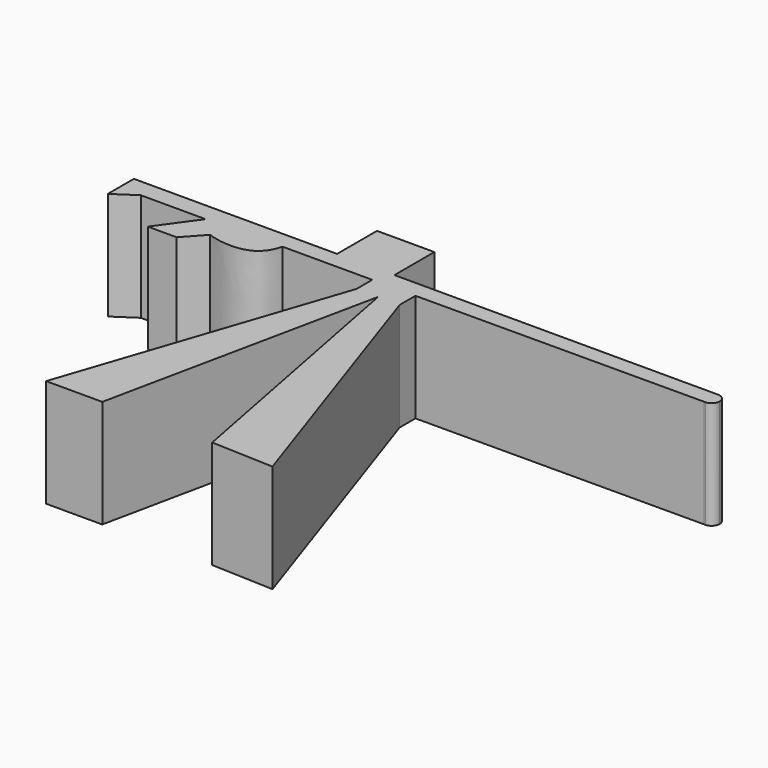
from build123d import *

# Parameters (mm, degrees)
F0_W     = 13.4990522638
F0_H     = 6.7189366567
F0_H_2   = 5.0193380237
F1_DEPTH = 25.4


with BuildPart() as f1:
    # F0 (on Top) → F1 (new body)
    with BuildSketch(Plane.XY):
        with Locations((-14.9052026682, 36.7298916125)):
            Rectangle(F0_W, F0_H)
        Polygon((-49.1617234445, 24.0451842546), (-46.0720470312, 28.3510852605), (-69.4638639688, 28.3510852605), (-69.4638639688, 20.6704232842), (-64.4017234445, 24.0451842546), align=None)
        Polygon((-18.5611955822, -44.5749908686), (-5.08, 19.6878403194), (-10.16, 19.6878403194), (-31.7790172994, -44.5749908686), align=None)
        Polygon((21.9359565526, -45.1374538243), (0, 19.6878403194), (-5.08, 19.6878403194), (7.3119853623, -44.5749908686), align=None)
        with Locations((-14.9052026682, 30.8607542723)):
            Rectangle(F0_W, F0_H_2)
        with BuildLine():
            Line((-41.9020165778, 22.7089282594), (-44.6144271886, 19.7146166008))
            add(Edge.make_bspline(
                [(-31.2667824328, 24.3264157325), (-31.9929960152, 21.6699538462), (-34.7602014448, 18.1939718361), (-41.4758034197, 18.5698095031), (-44.6144271886, 19.7146166008)],
                knots=[0, 0, 0, 0, 0.4544832874, 1, 1, 1, 1], degree=3))
            Line((-31.2667824328, 24.3264157325), (-37.5335417804, 24.3264157325))
            add(Edge.make_bspline(
                [(-37.5335417804, 24.3264157325), (-36.8480037486, 22.5468860707), (-34.5986306719, 21.0862357426), (-37.8524884582, 21.3479679078), (-41.9020165778, 22.7089282594)],
                knots=[0, 0, 0, 0, 0.4183773916, 1, 1, 1, 1], degree=3))
        make_face()
        Polygon((0, 19.6878403194), (0, 24.3264157325), (-10.16, 24.3264157325), (-10.16, 19.6878403194), (-5.08, 19.6878403194), align=None)
        with BuildLine():
            Line((-8.1556765363, 28.3510852605), (-21.6547288001, 28.3510852605))
            Line((-21.6547288001, 28.3510852605), (-46.0720470312, 28.3510852605))
            Line((-46.0720470312, 28.3510852605), (-49.1617234445, 24.0451842546))
            Line((-49.1617234445, 24.0451842546), (-55.57827127, 15.1028174692))
            Line((-55.57827127, 15.1028174692), (-48.7920460626, 15.1028174692))
            Line((-48.7920460626, 15.1028174692), (-44.6144271886, 19.7146166008))
            Line((-44.6144271886, 19.7146166008), (-41.9020165778, 22.7089282594))
            Line((-41.9020165778, 22.7089282594), (-40.4368083146, 24.3264157325))
            Line((-40.4368083146, 24.3264157325), (-37.5335417804, 24.3264157325))
            Line((-37.5335417804, 24.3264157325), (-31.2667824328, 24.3264157325))
            Line((-31.2667824328, 24.3264157325), (-10.16, 24.3264157325))
            Line((-10.16, 24.3264157325), (0, 24.3264157325))
            Line((0, 24.3264157325), (67.6737308797, 24.5399160971))
            ThreePointArc((67.6737308797, 24.5399160971), (66.0991955865, 26.6047667833), (68.04705303, 28.3219217342))
            Line((68.04705303, 28.3219217342), (68.0443234637, 28.3510852605))
            Line((68.0443234637, 28.3510852605), (-8.1556765363, 28.3510852605))
        make_face()
        with BuildLine():
            Line((-40.4368083146, 24.3264157325), (-41.9020165778, 22.7089282594))
            add(Edge.make_bspline(
                [(-37.5335417804, 24.3264157325), (-36.8480037486, 22.5468860707), (-34.5986306719, 21.0862357426), (-37.8524884582, 21.3479679078), (-41.9020165778, 22.7089282594)],
                knots=[0, 0, 0, 0, 0.4183773916, 1, 1, 1, 1], degree=3))
            Line((-37.5335417804, 24.3264157325), (-40.4368083146, 24.3264157325))
        make_face()
        with BuildLine():
            ThreePointArc((69.8999820042, 26.4176335186), (69.3603061972, 27.7461344963), (68.04705303, 28.3219217342))
            ThreePointArc((68.04705303, 28.3219217342), (66.0991955865, 26.6047667833), (67.6737308797, 24.5399160971))
            Line((67.6737308797, 24.5399160971), (68.0443234637, 24.5410852605))
            Line((68.0443234637, 24.5410852605), (68.0443234637, 24.5132726231))
            ThreePointArc((68.0443234637, 24.5132726231), (69.3593537425, 25.0881543876), (69.8999820042, 26.4176335186))
        make_face()
        with BuildLine():
            Line((68.0443234637, 24.5410852605), (67.6737308797, 24.5399160971))
            ThreePointArc((67.6737308797, 24.5399160971), (67.8583760557, 24.5175377802), (68.0443234637, 24.5132726231))
            Line((68.0443234637, 24.5132726231), (68.0443234637, 24.5410852605))
        make_face()
    extrude(amount=F1_DEPTH)


solid = f1.part
